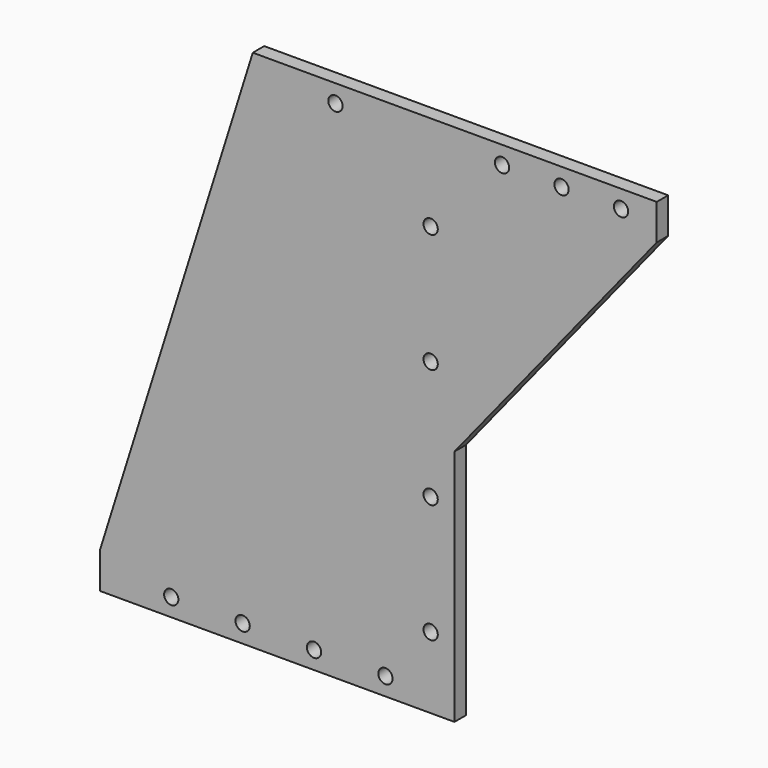
from build123d import *

# Parameters (mm, degrees)
F1_DEPTH = 6
F3_D     = 6


with BuildPart() as f1:
    # F0 (on Front) → F1 (new body)
    with BuildSketch(Plane.XZ):
        Polygon((-49, -12.5), (0, -12.5), (100, -12.5), (100, 87.5), (185, 192.5), (185, 207.5), (130, 207.5), (34.414634, 207.5), (15.269634, 207.5), (-49, 2.5), align=None)
    extrude(amount=F1_DEPTH)

    # F3 (through all)
    with Locations(Plane.XZ.offset(6)):
        with Locations((120, 200), (145, 200), (170, 200), (90, 167.5), (90, 117.5), (90, 67.5), (90, 17.5), (41, -5), (11, -5), (-19, -5), (71, -5), (50, 200)):
            Hole(F3_D / 2)


solid = f1.part
